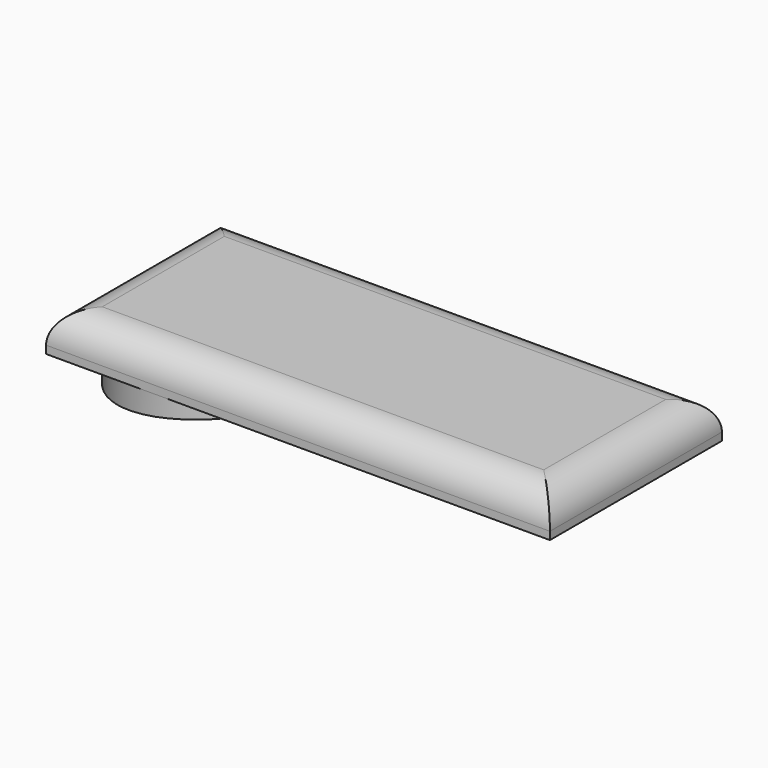
from build123d import *

# Parameters (mm, degrees)
F0_R          = 17.5
F1_DEPTH      = 6.35
F3_DEPTH      = 25.4
F3_DEPTH_BACK = 25.4
F4_W          = 82.024196
F4_H          = 35
F5_DEPTH      = 6.35
F6_R          = 5.08


with BuildPart() as f1:
    # F0 (on Top) → F1 (new body)
    with BuildSketch(Plane.XY):
        Circle(F0_R)
    extrude(amount=F1_DEPTH)

    # F2 (on Front) → F3 (cut, two sides)
    with BuildSketch(Plane.XZ) as f3_sk:
        Polygon((-17.5, 0), (0, 0), (17.5, 0), (17.5, 6.171444), align=None)
    extrude(amount=F3_DEPTH, mode=Mode.SUBTRACT)
    extrude(f3_sk.sketch, amount=-F3_DEPTH_BACK, mode=Mode.SUBTRACT)

    # F4 (on face) → F5 (join)
    with BuildSketch(Plane.XY.offset(6.35)):
        with Locations((23.512098, 0)):
            Rectangle(F4_W, F4_H)
    extrude(amount=F5_DEPTH)

    # F6
    f6_edges = [f1.edges().sort_by_distance(p)[0] for p in [
        (23.512098, 17.5, 12.7),
        (-17.5, 0, 12.7),
        (23.512098, -17.5, 12.7),
        (64.524196, 0, 12.7),
    ]]
    fillet(f6_edges, radius=F6_R)


solid = f1.part
